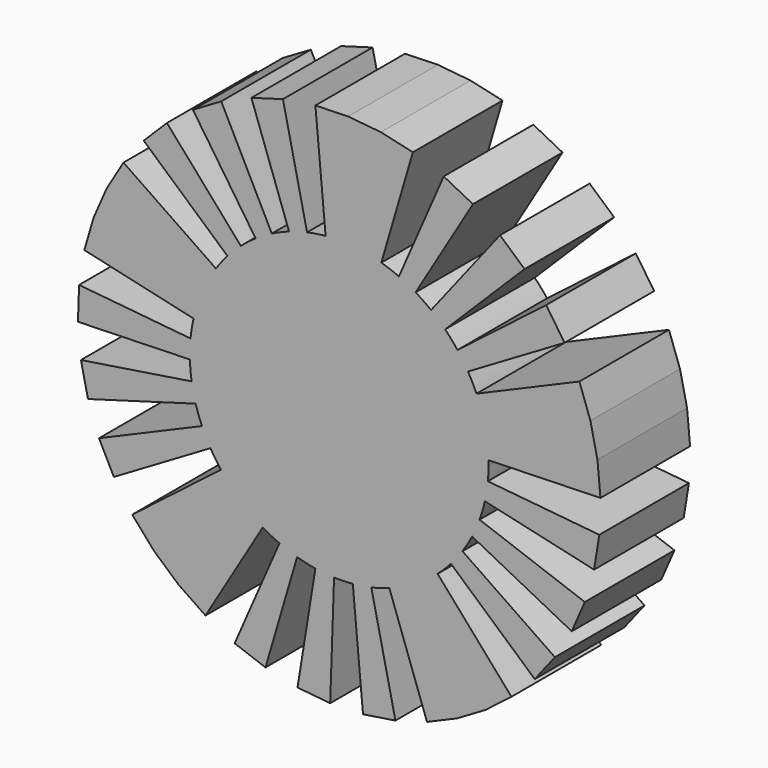
from build123d import *

# Parameters (mm, degrees)
F1_DEPTH = 19.05
F2_T     = -0.635


with BuildPart() as f1:
    # F0 (on Front) → F1 (new body)
    with BuildSketch(Plane.XZ):
        with BuildLine():
            Line((42.7227480087, 12.2706683838), (40.8479438334, 17.5284906532))
            Line((40.8479438334, 17.5284906532), (23.3416821905, 10.0162803733))
            ThreePointArc((23.3416821905, 10.0162803733), (24.8051006099, 5.4650694169), (25.3897859738, 0.7202556518))
            Line((25.3897859738, 0.7202556518), (44.4321254542, 1.2604473907))
            Line((44.4321254542, 1.2604473907), (43.9237889265, 6.8193303438))
            Line((43.9237889265, 6.8193303438), (42.7227480087, 12.2706683838))
        make_face()
        with BuildLine():
            ThreePointArc((25.3897859738, 0.7202556518), (24.8051006099, 5.4650694169), (23.3416821905, 10.0162803733))
            ThreePointArc((23.3416821905, 10.0162803733), (22.6666952643, 11.4621518834), (21.9022532472, 12.8627875166))
            ThreePointArc((21.9022532472, 12.8627875166), (21.0513730427, 14.2126596039), (20.1174126863, 15.5064408169))
            ThreePointArc((20.1174126863, 15.5064408169), (19.1040580928, 16.7390251922), (18.0153085099, 17.9055482824))
            ThreePointArc((18.0153085099, 17.9055482824), (16.8554607346, 19.0014063538), (15.6290921564, 20.0222745553))
            ThreePointArc((15.6290921564, 20.0222745553), (14.3410426917, 20.9641239864), (12.9963956832, 21.8232375977))
            ThreePointArc((12.9963956832, 21.8232375977), (11.6004578385, 22.5962248603), (10.1587382865, 23.2800351466))
            ThreePointArc((10.1587382865, 23.2800351466), (8.6769268355, 23.8719697698), (7.1608715184, 24.3696926344))
            ThreePointArc((7.1608715184, 24.3696926344), (2.4676077547, 25.2798518977), (-2.3130722439, 25.2944598044))
            ThreePointArc((-2.3130722439, 25.2944598044), (-3.8967601965, 25.099307958), (-5.4650694169, 24.8051006099))
            ThreePointArc((-5.4650694169, 24.8051006099), (-7.011810505, 24.4129988621), (-8.5308791805, 23.924550161))
            ThreePointArc((-8.5308791805, 23.924550161), (-10.0162803733, 23.3416821905), (-11.4621518834, 22.6666952643))
            ThreePointArc((-11.4621518834, 22.6666952643), (-12.8627875166, 21.9022532472), (-14.2126596039, 21.0513730427))
            ThreePointArc((-14.2126596039, 21.0513730427), (-15.5064408169, 20.1174126863), (-16.7390251922, 19.1040580928))
            ThreePointArc((-16.7390251922, 19.1040580928), (-17.9055482824, 18.0153085099), (-19.0014063538, 16.8554607346))
            ThreePointArc((-19.0014063538, 16.8554607346), (-20.0222745553, 15.6290921564), (-20.9641239864, 14.3410426917))
            ThreePointArc((-20.9641239864, 14.3410426917), (-23.2800351466, 10.1587382865), (-24.7712394557, 5.6165555129))
            ThreePointArc((-24.7712394557, 5.6165555129), (-25.0750255117, 4.0500735288), (-25.2798518977, 2.4676077547))
            ThreePointArc((-25.2798518977, 2.4676077547), (-25.3849102575, 0.8754034602), (-25.3897859738, -0.7202556518))
            ThreePointArc((-25.3897859738, -0.7202556518), (-25.2944598044, -2.3130722439), (-25.099307958, -3.8967601965))
            ThreePointArc((-25.099307958, -3.8967601965), (-24.8051006099, -5.4650694169), (-24.4129988621, -7.011810505))
            ThreePointArc((-24.4129988621, -7.011810505), (-23.924550161, -8.5308791805), (-23.3416821905, -10.0162803733))
            ThreePointArc((-23.3416821905, -10.0162803733), (-22.6666952643, -11.4621518834), (-21.9022532472, -12.8627875166))
            ThreePointArc((-21.9022532472, -12.8627875166), (-21.0513730427, -14.2126596039), (-20.1174126863, -15.5064408169))
            ThreePointArc((-20.1174126863, -15.5064408169), (-16.8554607346, -19.0014063538), (-12.9963956832, -21.8232375977))
            ThreePointArc((-12.9963956832, -21.8232375977), (-11.6004578385, -22.5962248603), (-10.1587382865, -23.2800351466))
            ThreePointArc((-10.1587382865, -23.2800351466), (-8.6769268355, -23.8719697698), (-7.1608715184, -24.3696926344))
            ThreePointArc((-7.1608715184, -24.3696926344), (-5.6165555129, -24.7712394557), (-4.0500735288, -25.0750255117))
            ThreePointArc((-4.0500735288, -25.0750255117), (-2.4676077547, -25.2798518977), (-0.8754034602, -25.3849102575))
            ThreePointArc((-0.8754034602, -25.3849102575), (0.7202556518, -25.3897859738), (2.3130722439, -25.2944598044))
            ThreePointArc((2.3130722439, -25.2944598044), (3.8967601965, -25.099307958), (5.4650694169, -24.8051006099))
            ThreePointArc((5.4650694169, -24.8051006099), (7.011810505, -24.4129988621), (8.5308791805, -23.924550161))
            ThreePointArc((8.5308791805, -23.924550161), (12.8627875166, -21.9022532472), (16.7390251922, -19.1040580928))
            ThreePointArc((16.7390251922, -19.1040580928), (17.9055482824, -18.0153085099), (19.0014063538, -16.8554607346))
            ThreePointArc((19.0014063538, -16.8554607346), (20.0222745553, -15.6290921564), (20.9641239864, -14.3410426917))
            ThreePointArc((20.9641239864, -14.3410426917), (21.8232375977, -12.9963956832), (22.5962248603, -11.6004578385))
            ThreePointArc((22.5962248603, -11.6004578385), (23.2800351466, -10.1587382865), (23.8719697698, -8.6769268355))
            ThreePointArc((23.8719697698, -8.6769268355), (24.3696926344, -7.1608715184), (24.7712394557, -5.6165555129))
            ThreePointArc((24.7712394557, -5.6165555129), (25.0750255117, -4.0500735288), (25.2798518977, -2.4676077547))
            ThreePointArc((25.2798518977, -2.4676077547), (25.3699451931, -1.2352655178), (25.4, 0))
            ThreePointArc((25.4, 0), (25.3974463651, 0.3601640357), (25.3897859738, 0.7202556518))
        make_face()
        with BuildLine():
            ThreePointArc((20.1174126863, 15.5064408169), (21.0513730427, 14.2126596039), (21.9022532472, 12.8627875166))
            Line((21.9022532472, 12.8627875166), (38.3289431826, 22.509878154))
            Line((38.3289431826, 22.509878154), (35.2054722011, 27.1362714296))
            Line((35.2054722011, 27.1362714296), (20.1174126863, 15.5064408169))
        make_face()
        with BuildLine():
            Line((44.2397408209, -4.3183135708), (25.2798518977, -2.4676077547))
            ThreePointArc((25.2798518977, -2.4676077547), (25.0750255117, -4.0500735288), (24.7712394557, -5.6165555129))
            Line((24.7712394557, -5.6165555129), (43.3496690474, -9.8289721476))
            Line((43.3496690474, -9.8289721476), (44.2397408209, -4.3183135708))
        make_face()
        with BuildLine():
            ThreePointArc((15.6290921564, 20.0222745553), (16.8554607346, 19.0014063538), (18.0153085099, 17.9055482824))
            Line((18.0153085099, 17.9055482824), (31.5267898923, 31.3347094942))
            Line((31.5267898923, 31.3347094942), (27.3509112737, 35.0389804718))
            Line((27.3509112737, 35.0389804718), (15.6290921564, 20.0222745553))
        make_face()
        with BuildLine():
            Line((41.7759470972, -15.1846219621), (23.8719697698, -8.6769268355))
            ThreePointArc((23.8719697698, -8.6769268355), (23.2800351466, -10.1587382865), (22.5962248603, -11.6004578385))
            Line((22.5962248603, -11.6004578385), (39.5433935055, -20.3008012174))
            Line((39.5433935055, -20.3008012174), (41.7759470972, -15.1846219621))
        make_face()
        with BuildLine():
            ThreePointArc((10.1587382865, 23.2800351466), (11.6004578385, 22.5962248603), (12.9963956832, 21.8232375977))
            Line((12.9963956832, 21.8232375977), (22.7436924456, 38.190665796))
            Line((22.7436924456, 38.190665796), (17.7777920013, 40.7400615066))
            Line((17.7777920013, 40.7400615066), (10.1587382865, 23.2800351466))
        make_face()
        with BuildLine():
            Line((36.6872169762, -25.0968247104), (20.9641239864, -14.3410426917))
            ThreePointArc((20.9641239864, -14.3410426917), (20.0222745553, -15.6290921564), (19.0014063538, -16.8554607346))
            Line((19.0014063538, -16.8554607346), (33.2524611192, -29.4970562856))
            Line((33.2524611192, -29.4970562856), (36.6872169762, -25.0968247104))
        make_face()
        with BuildLine():
            ThreePointArc((-2.3130722439, 25.2944598044), (2.4676077547, 25.2798518977), (7.1608715184, 24.3696926344))
            Line((7.1608715184, 24.3696926344), (12.5315251572, 42.6469621103))
            Line((12.5315251572, 42.6469621103), (7.0876286754, 43.8812946454))
            Line((7.0876286754, 43.8812946454), (1.5319560554, 44.4235929506))
            Line((1.5319560554, 44.4235929506), (-4.0478764267, 44.2653046576))
            Line((-4.0478764267, 44.2653046576), (-2.3130722439, 25.2944598044))
        make_face()
        with BuildLine():
            Line((29.2932940864, -33.4321016625), (16.7390251922, -19.1040580928))
            ThreePointArc((16.7390251922, -19.1040580928), (12.8627875166, -21.9022532472), (8.5308791805, -23.924550161))
            Line((8.5308791805, -23.924550161), (14.9290385659, -41.8679627818))
            Line((14.9290385659, -41.8679627818), (20.0587657959, -39.6667167124))
            Line((20.0587657959, -39.6667167124), (24.8721543068, -36.8399028248))
            Line((24.8721543068, -36.8399028248), (29.2932940864, -33.4321016625))
        make_face()
        with BuildLine():
            ThreePointArc((-8.5308791805, 23.924550161), (-7.011810505, 24.4129988621), (-5.4650694169, 24.8051006099))
            Line((-5.4650694169, 24.8051006099), (-9.5638714795, 43.4089260674))
            Line((-9.5638714795, 43.4089260674), (-14.9290385659, 41.8679627818))
            Line((-14.9290385659, 41.8679627818), (-8.5308791805, 23.924550161))
        make_face()
        with BuildLine():
            Line((9.5638714795, -43.4089260674), (5.4650694169, -24.8051006099))
            ThreePointArc((5.4650694169, -24.8051006099), (3.8967601965, -25.099307958), (2.3130722439, -25.2944598044))
            Line((2.3130722439, -25.2944598044), (4.0478764267, -44.2653046576))
            Line((4.0478764267, -44.2653046576), (9.5638714795, -43.4089260674))
        make_face()
        with BuildLine():
            ThreePointArc((-14.2126596039, 21.0513730427), (-12.8627875166, 21.9022532472), (-11.4621518834, 22.6666952643))
            Line((-11.4621518834, 22.6666952643), (-20.0587657959, 39.6667167124))
            Line((-20.0587657959, 39.6667167124), (-24.8721543068, 36.8399028248))
            Line((-24.8721543068, 36.8399028248), (-14.2126596039, 21.0513730427))
        make_face()
        with BuildLine():
            Line((-1.5319560554, -44.4235929506), (-0.8754034602, -25.3849102575))
            ThreePointArc((-0.8754034602, -25.3849102575), (-2.4676077547, -25.2798518977), (-4.0500735288, -25.0750255117))
            Line((-4.0500735288, -25.0750255117), (-7.0876286754, -43.8812946454))
            Line((-7.0876286754, -43.8812946454), (-1.5319560554, -44.4235929506))
        make_face()
        with BuildLine():
            ThreePointArc((-19.0014063538, 16.8554607346), (-17.9055482824, 18.0153085099), (-16.7390251922, 19.1040580928))
            Line((-16.7390251922, 19.1040580928), (-29.2932940864, 33.4321016625))
            Line((-29.2932940864, 33.4321016625), (-33.2524611192, 29.4970562856))
            Line((-33.2524611192, 29.4970562856), (-19.0014063538, 16.8554607346))
        make_face()
        with BuildLine():
            Line((-12.5315251572, -42.6469621103), (-7.1608715184, -24.3696926344))
            ThreePointArc((-7.1608715184, -24.3696926344), (-8.6769268355, -23.8719697698), (-10.1587382865, -23.2800351466))
            Line((-10.1587382865, -23.2800351466), (-17.7777920013, -40.7400615066))
            Line((-17.7777920013, -40.7400615066), (-12.5315251572, -42.6469621103))
        make_face()
        with BuildLine():
            ThreePointArc((-24.7712394557, 5.6165555129), (-23.2800351466, 10.1587382865), (-20.9641239864, 14.3410426917))
            Line((-20.9641239864, 14.3410426917), (-36.6872169762, 25.0968247104))
            Line((-36.6872169762, 25.0968247104), (-39.5433935055, 20.3008012174))
            Line((-39.5433935055, 20.3008012174), (-41.7759470972, 15.1846219621))
            Line((-41.7759470972, 15.1846219621), (-43.3496690474, 9.8289721476))
            Line((-43.3496690474, 9.8289721476), (-24.7712394557, 5.6165555129))
        make_face()
        with BuildLine():
            Line((-22.7436924456, -38.190665796), (-12.9963956832, -21.8232375977))
            ThreePointArc((-12.9963956832, -21.8232375977), (-16.8554607346, -19.0014063538), (-20.1174126863, -15.5064408169))
            Line((-20.1174126863, -15.5064408169), (-35.2054722011, -27.1362714295))
            Line((-35.2054722011, -27.1362714296), (-31.5267898923, -31.3347094942))
            Line((-31.5267898923, -31.3347094942), (-27.3509112737, -35.0389804718))
            Line((-27.3509112737, -35.0389804718), (-22.7436924456, -38.190665796))
        make_face()
        with BuildLine():
            ThreePointArc((-25.3897859738, -0.7202556518), (-25.3849102575, 0.8754034602), (-25.2798518977, 2.4676077547))
            Line((-25.2798518977, 2.4676077547), (-44.2397408209, 4.3183135708))
            Line((-44.2397408209, 4.3183135708), (-44.4321254542, -1.2604473907))
            Line((-44.4321254542, -1.2604473907), (-25.3897859738, -0.7202556518))
        make_face()
        with BuildLine():
            Line((-38.3289431826, -22.509878154), (-21.9022532472, -12.8627875166))
            ThreePointArc((-21.9022532472, -12.8627875166), (-22.6666952643, -11.4621518834), (-23.3416821905, -10.0162803733))
            Line((-23.3416821905, -10.0162803733), (-40.8479438334, -17.5284906532))
            Line((-40.8479438334, -17.5284906532), (-38.3289431826, -22.509878154))
        make_face()
        with BuildLine():
            ThreePointArc((-24.4129988621, -7.011810505), (-24.8051006099, -5.4650694169), (-25.099307958, -3.8967601965))
            Line((-25.099307958, -3.8967601965), (-43.9237889265, -6.8193303438))
            Line((-43.9237889265, -6.8193303438), (-42.7227480087, -12.2706683838))
            Line((-42.7227480087, -12.2706683838), (-24.4129988621, -7.011810505))
        make_face()
    extrude(amount=F1_DEPTH)

    # F2
    f2_openings = [f1.faces().sort_by_distance(p)[0] for p in [
        (0, 0, 0),
    ]]
    offset(amount=F2_T, openings=f2_openings, kind=Kind.INTERSECTION)


solid = f1.part
